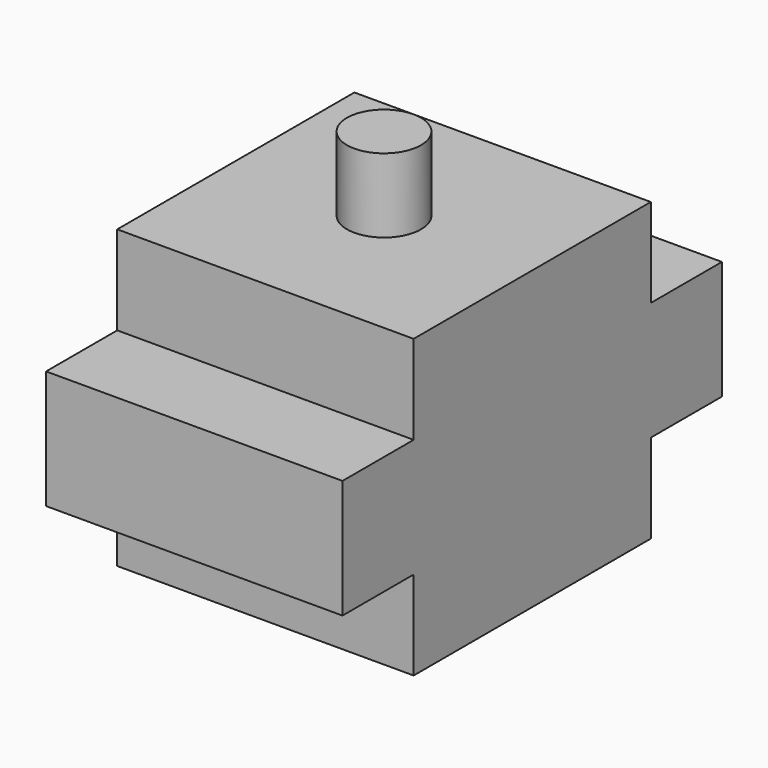
from build123d import *

# Parameters (mm, degrees)
F0_W     = 12.7
F0_H     = 12.7
F1_DEPTH = 12.7
F2_R     = 1.5875
F3_DEPTH = 3.175
F4_W     = 12.7
F4_H     = 5.08
F5_DEPTH = 3.81
F6_W     = 12.7
F6_H     = 5.08
F7_DEPTH = 3.81


with BuildPart() as f1:
    # F0 (on Top) → F1 (new body)
    with BuildSketch(Plane.XY):
        with Locations((6.35, 6.35)):
            Rectangle(F0_W, F0_H)
    extrude(amount=F1_DEPTH)

    # F2 (on face) → F3 (join)
    with BuildSketch(Plane.XY.offset(12.7)):
        with Locations((6.35, 6.35)):
            Circle(F2_R)
    extrude(amount=F3_DEPTH)

    # F4 (on face) → F5 (join)
    with BuildSketch(Plane.XZ):
        with Locations((6.35, 6.35)):
            Rectangle(F4_W, F4_H)
    extrude(amount=F5_DEPTH)

    # F6 (on face) → F7 (join)
    with BuildSketch(Plane(origin=(0, 12.7, 0), x_dir=(-1, 0, 0), z_dir=(0, 1, 0))):
        with Locations((-6.35, 6.35)):
            Rectangle(F6_W, F6_H)
    extrude(amount=F7_DEPTH)


solid = f1.part
